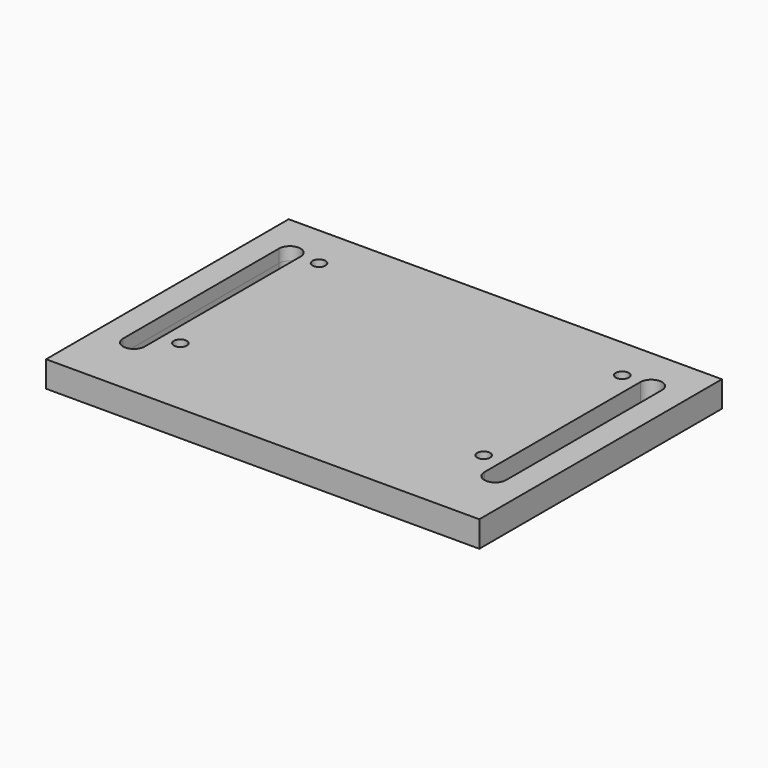
from build123d import *

# Parameters (mm, degrees)
F0_W     = 50
F0_H     = 70
F1_DEPTH = 3
F3_D     = 3
F6_DEPTH = 33


with BuildPart() as f1:
    # F0 (on Top) → F1 (new body)
    with BuildSketch(Plane.XY):
        with Locations((25, 35)):
            Rectangle(F0_W, F0_H)
    extrude(amount=F1_DEPTH)

    # F3 (through all)
    with Locations(Plane.XY.offset(3)):
        with Locations((35, 20), (35, 60)):
            Hole(F3_D / 2)

    # F5 (on face) → F6 (cut)
    with BuildSketch(Plane.XY.offset(3)):
        with BuildLine():
            ThreePointArc((44.21057, 59.963956), (41.71057, 62.463956), (39.21057, 59.963956))
            Line((39.21057, 59.963956), (39.21057, 14.963956))
            ThreePointArc((39.21057, 14.963956), (41.71057, 12.463956), (44.21057, 14.963956))
            Line((44.21057, 14.963956), (44.21057, 59.963956))
        make_face()
    extrude(amount=-F6_DEPTH, mode=Mode.SUBTRACT)

    # F7: F1 across plane


with BuildPart() as f1_1:
    add(f1.part)
    add(f1.part.mirror(Plane.XY))

    # F8: F1 across plane


with BuildPart() as f1_2:
    add(f1_1.part)
    add(f1_1.part.mirror(Plane.YZ))


solid = f1_2.part
